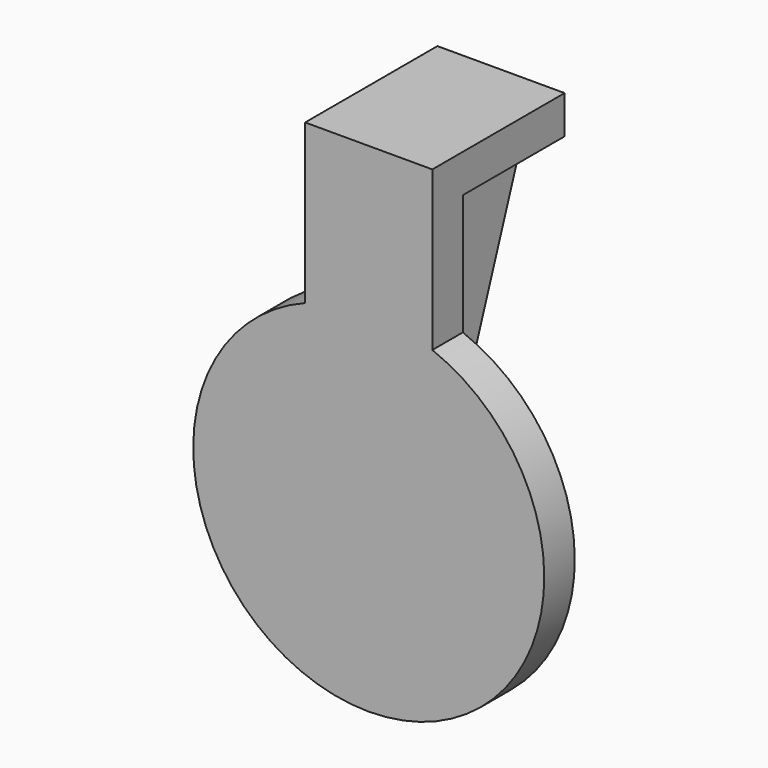
from build123d import *

# Parameters (mm, degrees)
F1_DEPTH = 6
F2_W     = 40
F2_H     = 40
F3_DEPTH = 12
F5_DEPTH = 5


with BuildPart() as f1:
    # F0 (on Front) → F1 (new body, symmetric)
    with BuildSketch(Plane.XZ):
        with BuildLine():
            ThreePointArc((-20, 51.4493926106), (-31.169215582, -45.5578752797), (55.2, 0))
            ThreePointArc((55.2, 0), (45.5578752797, 31.169215582), (20, 51.4493926106))
            Line((20, 51.4493926106), (-20, 51.4493926106))
        make_face()
        with BuildLine():
            Line((-20, 51.4493926106), (20, 51.4493926106))
            ThreePointArc((20, 51.4493926106), (0, 55.2), (-20, 51.4493926106))
        make_face()
        with BuildLine():
            ThreePointArc((-20, 51.4493926106), (0, 55.2), (20, 51.4493926106))
            Line((20, 51.4493926106), (20, 101.4493926106))
            Line((20, 101.4493926106), (-20, 101.4493926106))
            Line((-20, 101.4493926106), (-20, 51.4493926106))
        make_face()
    extrude(amount=F1_DEPTH, both=True)

    # F2 (on face) → F3 (join)
    with BuildSketch(Plane.XY.offset(101.4493926106)):
        with Locations((0, 26)):
            Rectangle(F2_W, F2_H)
    extrude(amount=-F3_DEPTH)


with BuildPart() as f5:
    # F4 (on Right) → F5 (new body, symmetric)
    with BuildSketch(Plane.YZ):
        Polygon((46, 77.4493926106), (46, 89.4493926106), (16, 89.4493926106), (6, 79.4493926106), (6, 0), (18, 0), align=None)
    extrude(amount=F5_DEPTH, both=True)


solid = Compound([f1.part, f5.part])
